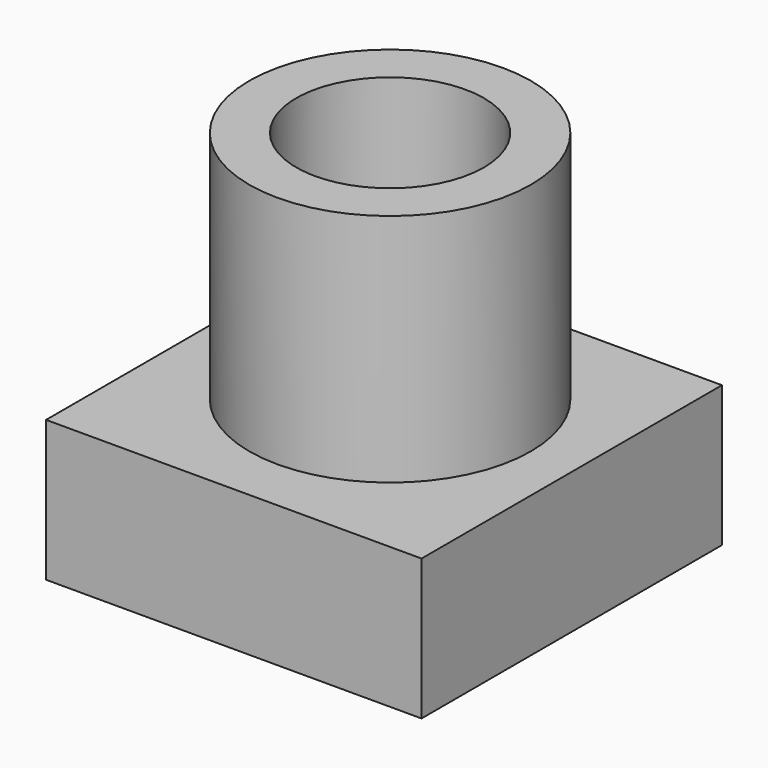
from build123d import *

# Parameters (mm, degrees)
F0_W     = 80
F0_H     = 30
F1_DEPTH = 80
F2_R     = 30
F2_R_2   = 20
F3_DEPTH = 50


with BuildPart() as f1:
    # F0 (on Front) → F1 (new body)
    with BuildSketch(Plane.XZ):
        Rectangle(F0_W, F0_H)
        Rectangle(F0_W, F0_H)
    extrude(amount=F1_DEPTH)

    # F2 (on face) → F3 (join)
    with BuildSketch(Plane.XY.offset(15)):
        with Locations((0.076559, -38.477771)):
            Circle(F2_R)
        with Locations((0.076559, -38.477771)):
            Circle(F2_R_2, mode=Mode.SUBTRACT)
    extrude(amount=F3_DEPTH)


solid = f1.part
